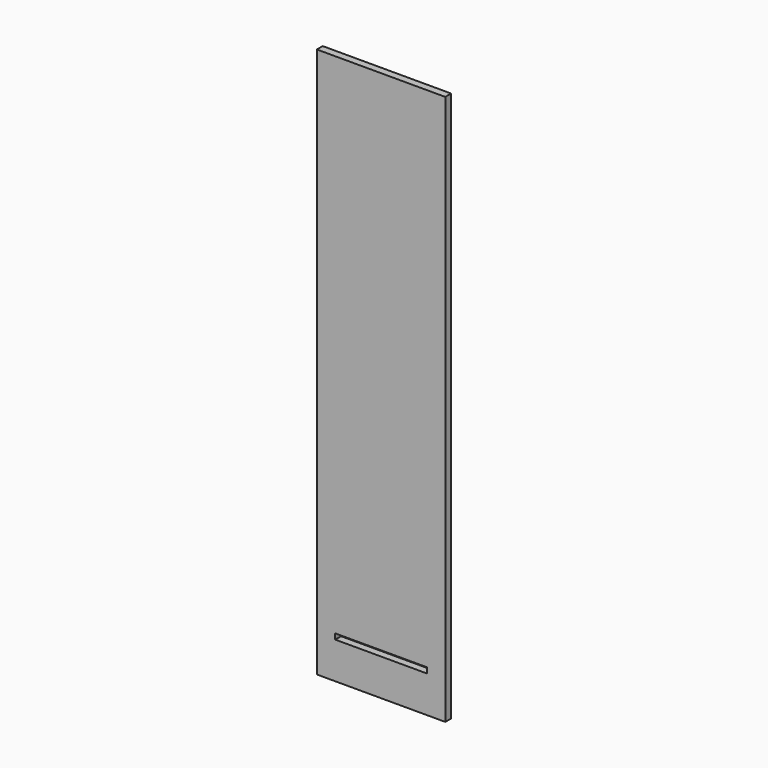
from build123d import *

# Parameters (mm, degrees)
F0_W     = 50
F0_H     = 20
F0_H_2   = 140
F0_H_3   = 17
F1_DEPTH = 4


with BuildPart() as f1:
    # F0 (on Front) → F1 (new body)
    with BuildSketch(Plane.XZ):
        Polygon((-10, 0), (0, 0), (0, 192.065343), (0, 300), (-10, 300), (-10, 160), (-10, 140), (-10, 120), (-10, 100), (-10, 80), (-10, 60), (-10, 40), (-10, 23), (-10, 20), align=None)
        with Locations((-35, 10)):
            Rectangle(F0_W, F0_H)
        Polygon((-70, 0), (-60, 0), (-60, 20), (-60, 23), (-60, 40), (-60, 60), (-60, 80), (-60, 100), (-60, 120), (-60, 140), (-60, 160), (-60, 300), (-70, 300), align=None)
        with Locations((-35, 230)):
            Rectangle(F0_W, F0_H_2)
        with Locations((-35, 150)):
            Rectangle(F0_W, F0_H)
        with Locations((-35, 110)):
            Rectangle(F0_W, F0_H)
        with Locations((-35, 90)):
            Rectangle(F0_W, F0_H)
        with Locations((-35, 130)):
            Rectangle(F0_W, F0_H)
        with Locations((-35, 50)):
            Rectangle(F0_W, F0_H)
        with Locations((-35, 70)):
            Rectangle(F0_W, F0_H)
        with Locations((-35, 31.5)):
            Rectangle(F0_W, F0_H_3)
    extrude(amount=F1_DEPTH)


solid = f1.part
